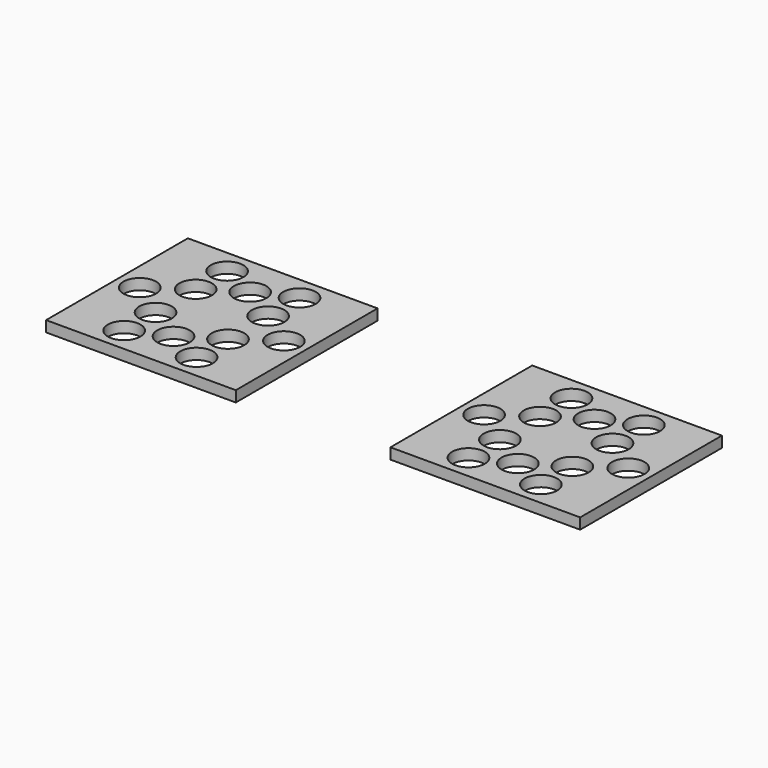
from build123d import *

# Parameters (mm, degrees)
F0_R     = 4.7625
F1_DEPTH = 3.175


with BuildPart() as f1:
    # F0 (on Top) → F1 (new body)
    with BuildSketch(Plane.XY):
        Polygon((-100.628261, 0), (-45.185141, 0), (-45.185141, 51.78044), (-62.325061, 51.78044), (-83.488341, 51.78044), (-100.628261, 51.78044), align=None)
        with Locations((-83.488341, 7.08406)):
            Circle(F0_R, mode=Mode.SUBTRACT)
        with Locations((-62.325061, 7.08406)):
            Circle(F0_R, mode=Mode.SUBTRACT)
        with Locations((-72.906701, 11.89482)):
            Circle(F0_R, mode=Mode.SUBTRACT)
        with Locations((-83.488341, 18.56486)):
            Circle(F0_R, mode=Mode.SUBTRACT)
        with Locations((-62.325061, 18.56486)):
            Circle(F0_R, mode=Mode.SUBTRACT)
        with Locations((-93.965841, 25.89022)):
            Circle(F0_R, mode=Mode.SUBTRACT)
        with Locations((-83.488341, 33.21558)):
            Circle(F0_R, mode=Mode.SUBTRACT)
        with Locations((-62.325061, 33.21558)):
            Circle(F0_R, mode=Mode.SUBTRACT)
        with Locations((-51.847561, 25.89022)):
            Circle(F0_R, mode=Mode.SUBTRACT)
        with Locations((-83.488341, 44.69638)):
            Circle(F0_R, mode=Mode.SUBTRACT)
        with Locations((-72.906701, 39.88562)):
            Circle(F0_R, mode=Mode.SUBTRACT)
        with Locations((-62.325061, 44.69638)):
            Circle(F0_R, mode=Mode.SUBTRACT)
        Polygon((0, 51.78044), (0, 0), (55.44312, 0), (55.44312, 51.78044), (38.3032, 51.78044), (17.13992, 51.78044), align=None)
        with Locations((17.13992, 7.08406)):
            Circle(F0_R, mode=Mode.SUBTRACT)
        with Locations((27.72156, 11.89482)):
            Circle(F0_R, mode=Mode.SUBTRACT)
        with Locations((38.3032, 7.08406)):
            Circle(F0_R, mode=Mode.SUBTRACT)
        with Locations((17.13992, 18.56486)):
            Circle(F0_R, mode=Mode.SUBTRACT)
        with Locations((38.3032, 18.56486)):
            Circle(F0_R, mode=Mode.SUBTRACT)
        with Locations((6.66242, 25.89022)):
            Circle(F0_R, mode=Mode.SUBTRACT)
        with Locations((48.7807, 25.89022)):
            Circle(F0_R, mode=Mode.SUBTRACT)
        with Locations((17.13992, 33.21558)):
            Circle(F0_R, mode=Mode.SUBTRACT)
        with Locations((38.3032, 33.21558)):
            Circle(F0_R, mode=Mode.SUBTRACT)
        with Locations((27.72156, 39.88562)):
            Circle(F0_R, mode=Mode.SUBTRACT)
        with Locations((17.13992, 44.69638)):
            Circle(F0_R, mode=Mode.SUBTRACT)
        with Locations((38.3032, 44.69638)):
            Circle(F0_R, mode=Mode.SUBTRACT)
    extrude(amount=F1_DEPTH)


solid = f1.part
